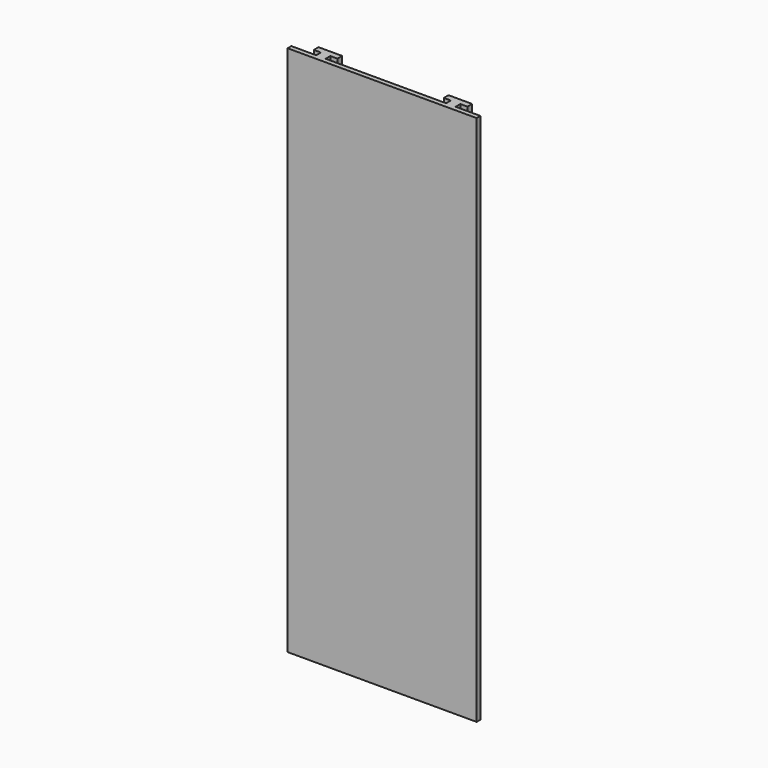
from build123d import *

# Parameters (mm, degrees)
F1_DEPTH = 450


with BuildPart() as f1:
    # F0 (on Top) → F1 (new body)
    with BuildSketch(Plane.XY):
        Polygon((0, 0), (80, 0), (80, 4), (59, 4), (59, 9), (65, 9), (65, 14), (45, 14), (45, 9), (51, 9), (51, 4), (-51, 4), (-51, 9), (-45, 9), (-45, 14), (-65, 14), (-65, 9), (-59, 9), (-59, 4), (-80, 4), (-80, 0), align=None)
    extrude(amount=F1_DEPTH)


solid = f1.part
